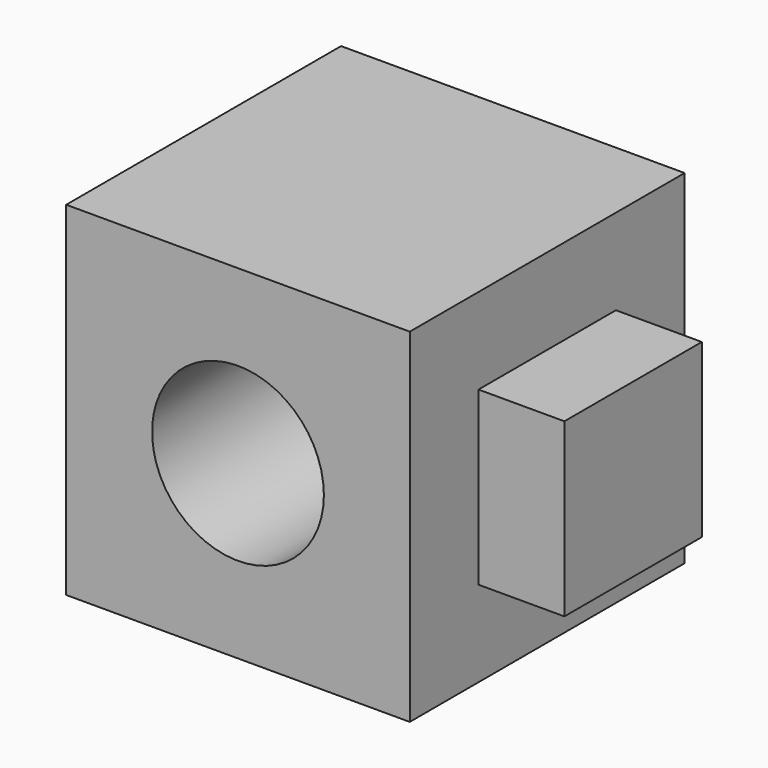
from build123d import *

# Parameters (mm, degrees)
F0_W     = 50.8
F0_H     = 50.8
F1_DEPTH = 50.8
F2_R     = 12.7
F3_DEPTH = 50.8
F4_W     = 25.4
F4_H     = 25.4
F5_DEPTH = 12.7


with BuildPart() as f1:
    # F0 (on Front) → F1 (new body)
    with BuildSketch(Plane.XZ):
        with Locations((-5.675664, 10.834337)):
            Rectangle(F0_W, F0_H)
    extrude(amount=F1_DEPTH)

    # F2 (on face) → F3 (cut)
    with BuildSketch(Plane.XZ.offset(50.8)):
        with Locations((-5.675664, 10.834337)):
            Circle(F2_R)
    extrude(amount=-F3_DEPTH, mode=Mode.SUBTRACT)

    # F4 (on face) → F5 (join)
    with BuildSketch(Plane.YZ.offset(19.724336)):
        with Locations((-25.4, 10.834337)):
            Rectangle(F4_W, F4_H)
    extrude(amount=F5_DEPTH)


solid = f1.part
